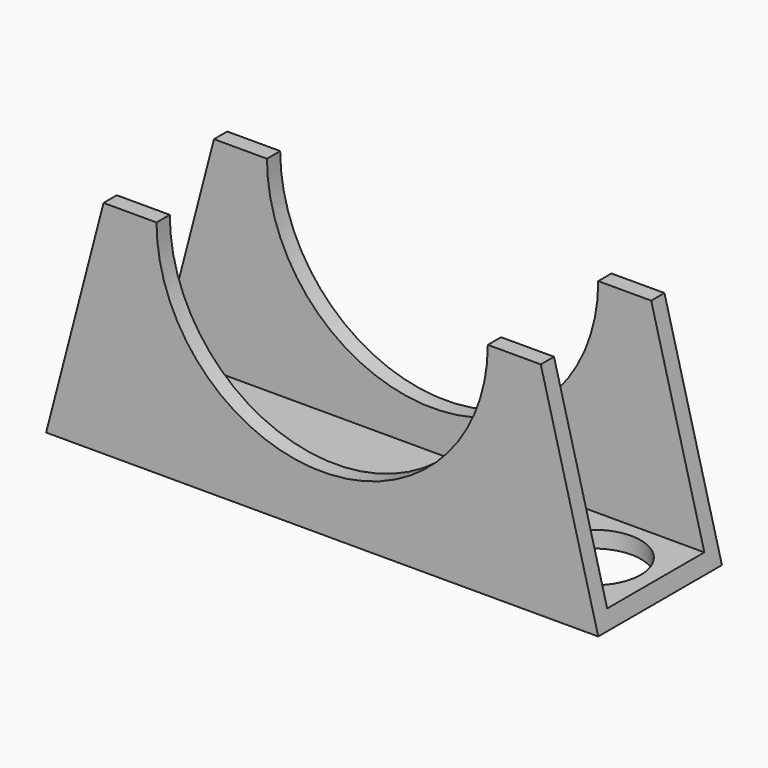
from build123d import *

# Parameters (mm, degrees)
F1_DEPTH = 14
F2_T     = -1.5
F4_D     = 8.5
F5_D     = 8.5


with BuildPart() as f1:
    # F0 (on Front) → F1 (new body)
    with BuildSketch(Plane.XZ):
        with BuildLine():
            Line((-53.882042, 22.777336), (-59.085524, 2.777336))
            Line((-59.085524, 2.777336), (-9.085524, 2.777336))
            Line((-9.085524, 2.777336), (-14.289005, 22.777336))
            Line((-14.289005, 22.777336), (-19.085524, 22.777336))
            ThreePointArc((-19.085524, 22.777336), (-34.085524, 7.777336), (-49.085524, 22.777336))
            Line((-49.085524, 22.777336), (-53.882042, 22.777336))
        make_face()
    extrude(amount=F1_DEPTH)

    # F2
    f2_openings = [f1.faces().sort_by_distance(p)[0] for p in [
        (-56.483783, -7, 12.777336),
        (-51.483783, -7, 22.777336),
        (-34.085524, -7, 7.777336),
        (-16.687264, -7, 22.777336),
        (-11.687264, -7, 12.777336),
    ]]
    offset(amount=F2_T, openings=f2_openings)

    # F4 (through all)
    with Locations(Plane(origin=(0, 0, 2.777336), x_dir=(1, 0, 0), z_dir=(0, 0, -1))):
        with Locations((-53.085524, 7)):
            Hole(F4_D / 2)

    # F5 (through all)
    with Locations(Plane(origin=(0, 0, 2.777336), x_dir=(1, 0, 0), z_dir=(0, 0, -1))):
        with Locations((-15.085524, 7)):
            Hole(F5_D / 2)


solid = f1.part
